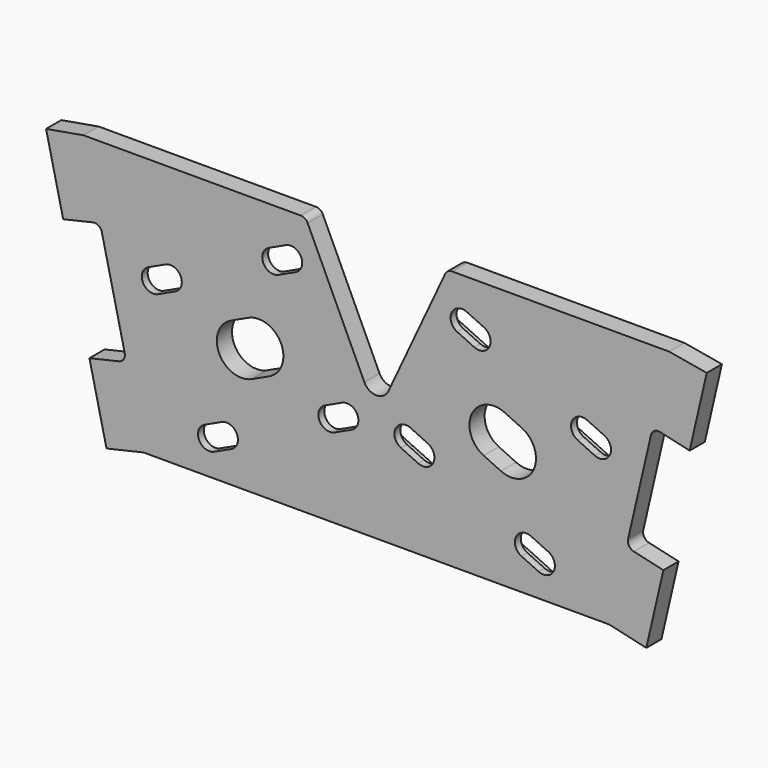
from build123d import *

# Parameters (mm, degrees)
F1_DEPTH = 10
F2_START = 6.1
F2_DEPTH = 3.9


with BuildPart() as f1:
    # F0 (on Front) → F1 (new body)
    with BuildSketch(Plane.XZ):
        with BuildLine():
            ThreePointArc((-36.2228804372, 67.6292184035), (-37.698913152, 69.3123111398), (-39.8481115853, 69.9387453565))
            Line((-39.8481115853, 69.9387453565), (-154.2675887644, 69.9387453565))
            Line((-154.2675887644, 69.9387453565), (-174, 66.5009789131))
            Line((-174, 66.5009789131), (-165.0019578262, 27.5261763217))
            Line((-165.0019578262, 27.5261763217), (-149.4120367897, 31.1253931912))
            ThreePointArc((-149.4120367897, 31.1253931912), (-146.3925555154, 30.6201053167), (-144.6147523132, 28.1277171494))
            Line((-144.6147523132, 28.1277171494), (-132.5798709058, -24.0010813166))
            ThreePointArc((-132.5798709058, -24.0010813166), (-133.0851587803, -27.0205625909), (-135.5775469475, -28.7983657931))
            Line((-135.5775469475, -28.7983657931), (-151.1674679841, -32.3975826626))
            Line((-151.1674679841, -32.3975826626), (-142.1694258103, -71.372385254))
            Line((-142.1694258103, -71.372385254), (-122.6820245146, -66.8733641671))
            Line((-122.6820245146, -66.8733641671), (122.6820245146, -66.8733641671))
            Line((122.6820245146, -66.8733641671), (142.1694258103, -71.372385254))
            Line((142.1694258103, -71.372385254), (151.1674679841, -32.3975826626))
            Line((151.1674679841, -32.3975826626), (135.5775469475, -28.7983657931))
            ThreePointArc((135.5775469475, -28.7983657931), (133.0851587803, -27.0205625909), (132.5798709058, -24.0010813166))
            Line((132.5798709058, -24.0010813166), (144.6147523132, 28.1277171494))
            ThreePointArc((144.6147523132, 28.1277171494), (146.3925555154, 30.6201053167), (149.4120367897, 31.1253931912))
            Line((149.4120367897, 31.1253931912), (165.0019578262, 27.5261763217))
            Line((165.0019578262, 27.5261763217), (174, 66.5009789131))
            Line((174, 66.5009789131), (154.2675887644, 69.9387453565))
            Line((154.2675887644, 69.9387453565), (39.8481115853, 69.9387453565))
            ThreePointArc((39.8481115853, 69.9387453565), (37.698913152, 69.3123111398), (36.2228804372, 67.6292184035))
            Line((36.2228804372, 67.6292184035), (6.3441545093, 3.554083875))
            ThreePointArc((6.3441545093, 3.554083875), (0, -0.4875882928), (-6.3441545093, 3.554083875))
            Line((-6.3441545093, 3.554083875), (-36.2228804372, 67.6292184035))
        make_face()
        with BuildLine():
            Line((-96.7999833788, -41.9593826596), (-92.2684444436, -39.8462913509))
            Line((-92.2684444436, -39.8462913509), (-19.7638214806, -6.0368304117))
            Line((-19.7638214806, -6.0368304117), (-15.2322825455, -3.923739103))
            ThreePointArc((-15.2322825455, -3.923739103), (-1.8101294528, -8.8090033085), (-6.6953936583, -22.2311564011))
            Line((-6.6953936583, -22.2311564011), (-11.2269325935, -24.3442477098))
            Line((-11.2269325935, -24.3442477098), (-83.7315555564, -58.1537086491))
            Line((-83.7315555564, -58.1537086491), (-88.2630944916, -60.2667999578))
            ThreePointArc((-88.2630944916, -60.2667999578), (-101.6852475843, -55.3815357523), (-96.7999833788, -41.9593826596))
        make_face(mode=Mode.SUBTRACT)
        with BuildLine():
            Line((88.2630944916, -60.2667999578), (83.7315555564, -58.1537086491))
            Line((83.7315555564, -58.1537086491), (11.2269325935, -24.3442477098))
            Line((11.2269325935, -24.3442477098), (6.6953936583, -22.2311564011))
            ThreePointArc((6.6953936583, -22.2311564011), (1.8101294528, -8.8090033085), (15.2322825455, -3.923739103))
            Line((15.2322825455, -3.923739103), (19.7638214806, -6.0368304117))
            Line((19.7638214806, -6.0368304117), (92.2684444436, -39.8462913509))
            Line((92.2684444436, -39.8462913509), (96.7999833788, -41.9593826596))
            ThreePointArc((96.7999833788, -41.9593826596), (101.6852475843, -55.3815357523), (88.2630944916, -60.2667999578))
        make_face(mode=Mode.SUBTRACT)
        with BuildLine():
            ThreePointArc((-65.576829212, -14.2695895243), (-82.8528678461, -7.9816256954), (-76.5649040173, 9.2944129387))
            Line((-76.5649040173, 9.2944129387), (-67.5018261469, 13.5205955561))
            ThreePointArc((-67.5018261469, 13.5205955561), (-50.2257875128, 7.2326317272), (-56.5137513416, -10.0434069069))
            Line((-56.5137513416, -10.0434069069), (-65.576829212, -14.2695895243))
        make_face(mode=Mode.SUBTRACT)
        with BuildLine():
            Line((-40.8102109153, 39.0972973828), (-113.3148338783, 5.2878364435))
            Line((-113.3148338783, 5.2878364435), (-117.8463728135, 3.1747451348))
            ThreePointArc((-117.8463728135, 3.1747451348), (-131.2685259061, 8.0600093403), (-126.3832617006, 21.4821624329))
            Line((-126.3832617006, 21.4821624329), (-121.8517227654, 23.5952537416))
            Line((-121.8517227654, 23.5952537416), (-49.3470998025, 57.4047146809))
            Line((-49.3470998025, 57.4047146809), (-44.8155608673, 59.5178059896))
            ThreePointArc((-44.8155608673, 59.5178059896), (-31.3934077747, 54.6325417841), (-36.2786719802, 41.2103886915))
            Line((-36.2786719802, 41.2103886915), (-40.8102109153, 39.0972973828))
        make_face(mode=Mode.SUBTRACT)
        with BuildLine():
            ThreePointArc((76.5649040173, 9.2944129387), (82.8528678461, -7.9816256954), (65.576829212, -14.2695895243))
            Line((65.576829212, -14.2695895243), (56.5137513416, -10.0434069069))
            ThreePointArc((56.5137513416, -10.0434069069), (50.2257875128, 7.2326317272), (67.5018261469, 13.5205955561))
            Line((67.5018261469, 13.5205955561), (76.5649040173, 9.2944129387))
        make_face(mode=Mode.SUBTRACT)
        with BuildLine():
            Line((49.3470998025, 57.4047146809), (121.8517227654, 23.5952537416))
            Line((121.8517227654, 23.5952537416), (126.3832617006, 21.4821624329))
            ThreePointArc((126.3832617006, 21.4821624329), (131.2685259061, 8.0600093403), (117.8463728135, 3.1747451348))
            Line((117.8463728135, 3.1747451348), (113.3148338783, 5.2878364435))
            Line((113.3148338783, 5.2878364435), (40.8102109153, 39.0972973828))
            Line((40.8102109153, 39.0972973828), (36.2786719802, 41.2103886915))
            ThreePointArc((36.2786719802, 41.2103886915), (31.3934077747, 54.6325417841), (44.8155608673, 59.5178059896))
            Line((44.8155608673, 59.5178059896), (49.3470998025, 57.4047146809))
        make_face(mode=Mode.SUBTRACT)
    extrude(amount=F1_DEPTH)

    # F0 (on Front) → F2 (join)
    with BuildSketch(Plane.XZ.offset(F2_START)):
        with BuildLine():
            Line((-117.8463728135, 3.1747451348), (-113.3148338783, 5.2878364435))
            Line((-113.3148338783, 5.2878364435), (-40.8102109153, 39.0972973828))
            Line((-40.8102109153, 39.0972973828), (-36.2786719802, 41.2103886915))
            ThreePointArc((-36.2786719802, 41.2103886915), (-31.3934077747, 54.6325417841), (-44.8155608673, 59.5178059896))
            Line((-44.8155608673, 59.5178059896), (-49.3470998025, 57.4047146809))
            Line((-49.3470998025, 57.4047146809), (-121.8517227654, 23.5952537416))
            Line((-121.8517227654, 23.5952537416), (-126.3832617006, 21.4821624329))
            ThreePointArc((-126.3832617006, 21.4821624329), (-131.2685259061, 8.0600093403), (-117.8463728135, 3.1747451348))
        make_face()
        with BuildLine():
            Line((-105.984490881, 13.2298809878), (-115.0475687514, 9.0036983703))
            ThreePointArc((-115.0475687514, 9.0036983703), (-123.0211250441, 11.9058355221), (-120.1189878923, 19.8793918148))
            Line((-120.1189878923, 19.8793918148), (-111.0559100219, 24.1055744322))
            ThreePointArc((-111.0559100219, 24.1055744322), (-103.0823537293, 21.2034372804), (-105.984490881, 13.2298809878))
        make_face(mode=Mode.SUBTRACT)
        with BuildLine():
            ThreePointArc((-47.6143649294, 53.688852754), (-39.6408086367, 50.7867156023), (-42.5429457885, 42.8131593096))
            Line((-42.5429457885, 42.8131593096), (-51.6060236588, 38.5869766922))
            ThreePointArc((-51.6060236588, 38.5869766922), (-59.5795799515, 41.489113844), (-56.6774427997, 49.4626701366))
            Line((-56.6774427997, 49.4626701366), (-47.6143649294, 53.688852754))
        make_face(mode=Mode.SUBTRACT)
        with BuildLine():
            Line((-19.7638214806, -6.0368304117), (-92.2684444436, -39.8462913509))
            Line((-92.2684444436, -39.8462913509), (-96.7999833788, -41.9593826596))
            ThreePointArc((-96.7999833788, -41.9593826596), (-101.6852475843, -55.3815357523), (-88.2630944916, -60.2667999578))
            Line((-88.2630944916, -60.2667999578), (-83.7315555564, -58.1537086491))
            Line((-83.7315555564, -58.1537086491), (-11.2269325935, -24.3442477098))
            Line((-11.2269325935, -24.3442477098), (-6.6953936583, -22.2311564011))
            ThreePointArc((-6.6953936583, -22.2311564011), (-1.8101294528, -8.8090033085), (-15.2322825455, -3.923739103))
            Line((-15.2322825455, -3.923739103), (-19.7638214806, -6.0368304117))
        make_face()
        with BuildLine():
            ThreePointArc((-85.4642904296, -54.4378467222), (-93.4378467222, -51.5357095704), (-90.5357095704, -43.5621532778))
            Line((-90.5357095704, -43.5621532778), (-81.4726317001, -39.3359706604))
            ThreePointArc((-81.4726317001, -39.3359706604), (-73.4990754074, -42.2381078121), (-76.4012125592, -50.2116641048))
            Line((-76.4012125592, -50.2116641048), (-85.4642904296, -54.4378467222))
        make_face(mode=Mode.SUBTRACT)
        with BuildLine():
            Line((-12.9596674666, -20.628385783), (-22.022745337, -24.8545684004))
            ThreePointArc((-22.022745337, -24.8545684004), (-29.9963016297, -21.9524312486), (-27.0941644779, -13.9788749559))
            Line((-27.0941644779, -13.9788749559), (-18.0310866075, -9.7526923385))
            ThreePointArc((-18.0310866075, -9.7526923385), (-10.0575303148, -12.6548294903), (-12.9596674666, -20.628385783))
        make_face(mode=Mode.SUBTRACT)
        with BuildLine():
            Line((126.3832617006, 21.4821624329), (121.8517227654, 23.5952537416))
            Line((121.8517227654, 23.5952537416), (49.3470998025, 57.4047146809))
            Line((49.3470998025, 57.4047146809), (44.8155608673, 59.5178059896))
            ThreePointArc((44.8155608673, 59.5178059896), (31.3934077747, 54.6325417841), (36.2786719802, 41.2103886915))
            Line((36.2786719802, 41.2103886915), (40.8102109153, 39.0972973828))
            Line((40.8102109153, 39.0972973828), (113.3148338783, 5.2878364435))
            Line((113.3148338783, 5.2878364435), (117.8463728135, 3.1747451348))
            ThreePointArc((117.8463728135, 3.1747451348), (131.2685259061, 8.0600093403), (126.3832617006, 21.4821624329))
        make_face()
        with BuildLine():
            ThreePointArc((120.1189878923, 19.8793918148), (123.0211250441, 11.9058355221), (115.0475687514, 9.0036983703))
            Line((115.0475687514, 9.0036983703), (105.984490881, 13.2298809878))
            ThreePointArc((105.984490881, 13.2298809878), (103.0823537293, 21.2034372804), (111.0559100219, 24.1055744322))
            Line((111.0559100219, 24.1055744322), (120.1189878923, 19.8793918148))
        make_face(mode=Mode.SUBTRACT)
        with BuildLine():
            ThreePointArc((42.5429457885, 42.8131593096), (39.6408086367, 50.7867156023), (47.6143649294, 53.688852754))
            Line((47.6143649294, 53.688852754), (56.6774427997, 49.4626701366))
            ThreePointArc((56.6774427997, 49.4626701366), (59.5795799515, 41.489113844), (51.6060236588, 38.5869766922))
            Line((51.6060236588, 38.5869766922), (42.5429457885, 42.8131593096))
        make_face(mode=Mode.SUBTRACT)
        with BuildLine():
            Line((11.2269325935, -24.3442477098), (83.7315555564, -58.1537086491))
            Line((83.7315555564, -58.1537086491), (88.2630944916, -60.2667999578))
            ThreePointArc((88.2630944916, -60.2667999578), (101.6852475843, -55.3815357523), (96.7999833788, -41.9593826596))
            Line((96.7999833788, -41.9593826596), (92.2684444436, -39.8462913509))
            Line((92.2684444436, -39.8462913509), (19.7638214806, -6.0368304117))
            Line((19.7638214806, -6.0368304117), (15.2322825455, -3.923739103))
            ThreePointArc((15.2322825455, -3.923739103), (1.8101294528, -8.8090033085), (6.6953936583, -22.2311564011))
            Line((6.6953936583, -22.2311564011), (11.2269325935, -24.3442477098))
        make_face()
        with BuildLine():
            ThreePointArc((90.5357095704, -43.5621532778), (93.4378467222, -51.5357095704), (85.4642904296, -54.4378467222))
            Line((85.4642904296, -54.4378467222), (76.4012125592, -50.2116641048))
            ThreePointArc((76.4012125592, -50.2116641048), (73.4990754074, -42.2381078121), (81.4726317001, -39.3359706604))
            Line((81.4726317001, -39.3359706604), (90.5357095704, -43.5621532778))
        make_face(mode=Mode.SUBTRACT)
        with BuildLine():
            ThreePointArc((12.9596674666, -20.628385783), (10.0575303148, -12.6548294903), (18.0310866075, -9.7526923385))
            Line((18.0310866075, -9.7526923385), (27.0941644779, -13.9788749559))
            ThreePointArc((27.0941644779, -13.9788749559), (29.9963016297, -21.9524312486), (22.022745337, -24.8545684004))
            Line((22.022745337, -24.8545684004), (12.9596674666, -20.628385783))
        make_face(mode=Mode.SUBTRACT)
    extrude(amount=F2_DEPTH)


solid = f1.part
